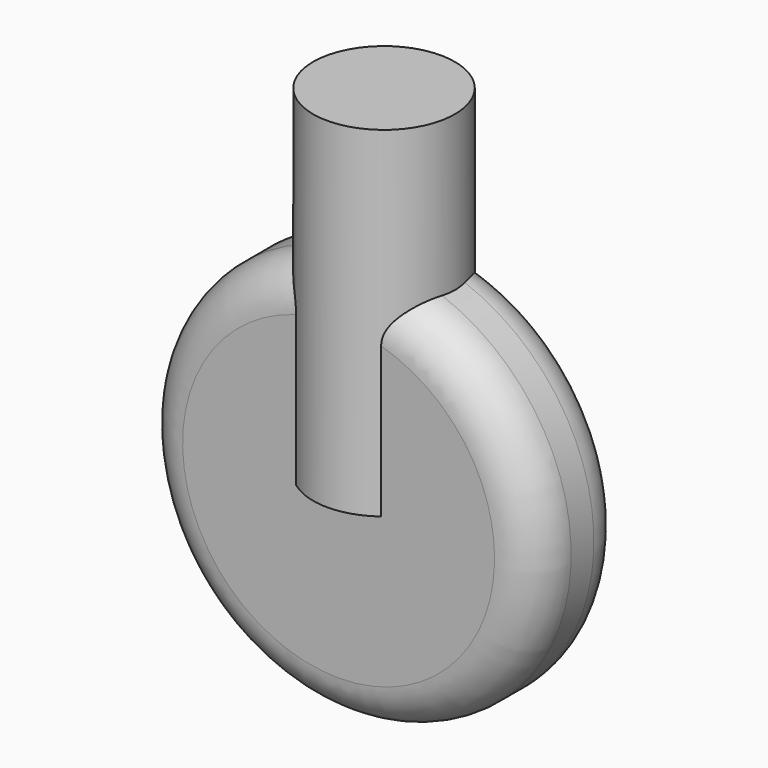
from build123d import *

# Parameters (mm, degrees)
F0_R     = 70
F1_DEPTH = 20
F2_R     = 15
F3_W     = 25
F3_H     = 120


with BuildPart() as f1:
    # F0 (on Front) → F1 (new body, symmetric)
    with BuildSketch(Plane.XZ):
        Circle(F0_R)
    extrude(amount=F1_DEPTH, both=True)

    # F2
    f2_edges = [f1.edges().sort_by_distance(p)[0] for p in [
        (-70, -20, 0),
        (-70, 20, 0),
    ]]
    fillet(f2_edges, radius=F2_R)

    # F3 (on Front) → F4 (revolve)
    with BuildSketch(Plane.XZ):
        with Locations((-12.5, 60)):
            Rectangle(F3_W, F3_H)
    revolve(axis=Axis((0, 0, 60), (0, 0, 1)))


solid = f1.part
